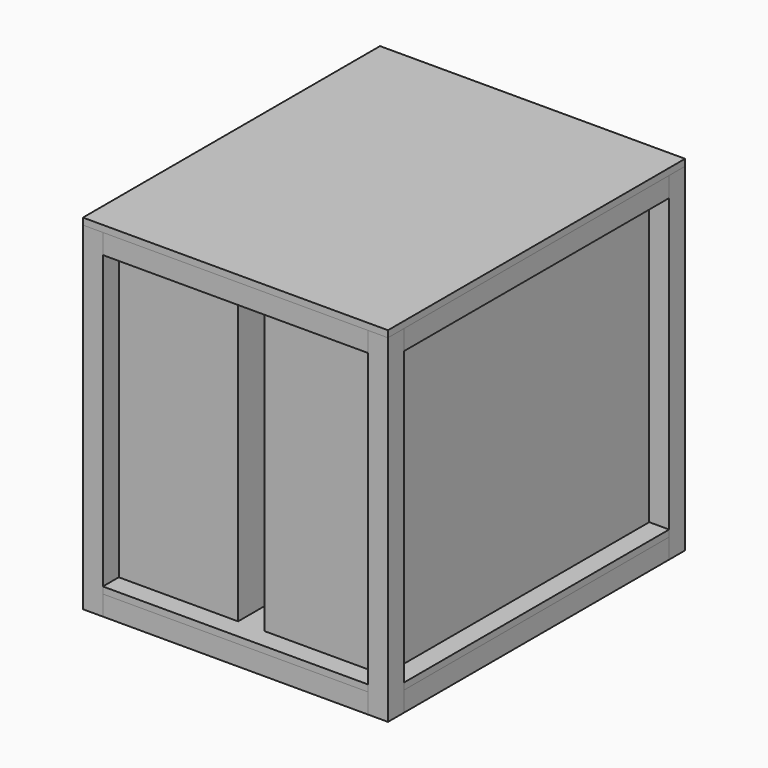
from build123d import *

# Parameters (mm, degrees)
F0_W      = 228.6
F0_H      = 635
F1_DEPTH  = 558.8
F2_W      = 38.1
F2_H      = 38.1
F3_DEPTH  = 596.9
F3_FACE_W = 38.1
F3_FACE_H = 38.1
F4_DEPTH  = 50.8
F5_DEPTH  = 50.8
F6_DEPTH  = 50.8
F7_DEPTH  = 50.8
F9_DEPTH  = 12.7
F10_W     = 38.1
F10_H     = 635
F10_W_2   = 508
F10_H_2   = 38.1
F11_DEPTH = 38.1
F12_W     = 508
F12_H     = 38.1
F12_W_2   = 38.1
F12_H_2   = 635
F13_DEPTH = 38.1
F14_W     = 584.2
F14_H     = 711.2
F15_DEPTH = 12.7
F16_R     = 3.96875
F17_DEPTH = 50.8


with BuildPart() as f1:
    # F0 (on Top) → F1 (new body)
    with BuildSketch(Plane.XY):
        with Locations((139.7, 0)):
            Rectangle(F0_W, F0_H)
        with Locations((-139.7, 0)):
            Rectangle(F0_W, F0_H)
    extrude(amount=F1_DEPTH)



with BuildPart() as f3:
    # F2 (on Top) → F3 (new body)
    with BuildSketch(Plane.XY):
        with Locations((-273.05, 336.55)):
            Rectangle(F2_W, F2_H)
        with Locations((273.05, 336.55)):
            Rectangle(F2_W, F2_H)
        with Locations((273.05, -336.55)):
            Rectangle(F2_W, F2_H)
        with Locations((-273.05, -336.55)):
            Rectangle(F2_W, F2_H)
    extrude(amount=F3_DEPTH)


with BuildPart() as f1_1:
    add(f1.part)

    add(f3.part)  # F4 merges F3
    # F3_face (on face) → F4 (join)
    with BuildSketch(Plane(origin=(-273.05, -336.55, 0), x_dir=(1, 0, 0), z_dir=(0, 0, -1))):
        Rectangle(F3_FACE_W, F3_FACE_H)
    extrude(amount=F4_DEPTH)

    # F3_face (on face) → F5 (join)
    with BuildSketch(Plane(origin=(-273.05, -336.55, 0), x_dir=(1, 0, 0), z_dir=(0, 0, -1))):
        with Locations((546.1, 0)):
            Rectangle(F3_FACE_W, F3_FACE_H)
    extrude(amount=F5_DEPTH)

    # F3_face (on face) → F6 (join)
    with BuildSketch(Plane(origin=(-273.05, -336.55, 0), x_dir=(1, 0, 0), z_dir=(0, 0, -1))):
        with Locations((0, -673.1)):
            Rectangle(F3_FACE_W, F3_FACE_H)
    extrude(amount=F6_DEPTH)

    # F3_face (on face) → F7 (join)
    with BuildSketch(Plane(origin=(-273.05, -336.55, 0), x_dir=(1, 0, 0), z_dir=(0, 0, -1))):
        with Locations((546.1, -673.1)):
            Rectangle(F3_FACE_W, F3_FACE_H)
    extrude(amount=F7_DEPTH)

    # F16 (on face) → F17 (cut)
    with BuildSketch(Plane(origin=(0, 0, -50.8), x_dir=(1, 0, 0), z_dir=(0, 0, -1))):
        with Locations((273.05, -336.55)):
            Circle(F16_R)
        with Locations((-273.05, -336.55)):
            Circle(F16_R)
        with Locations((273.05, 336.55)):
            Circle(F16_R)
        with Locations((-273.05, 336.55)):
            Circle(F16_R)
    extrude(amount=-F17_DEPTH, mode=Mode.SUBTRACT)


with BuildPart() as f9:
    # F8 (on Top) → F9 (new body)
    with BuildSketch(Plane.XY):
        Polygon((-254, 317.5), (-292.1, 317.5), (-292.1, -317.5), (-254, -317.5), (-254, -355.6), (254, -355.6), (254, -317.5), (292.1, -317.5), (292.1, 317.5), (254, 317.5), (254, 355.6), (-254, 355.6), align=None)
    extrude(amount=-F9_DEPTH)


with BuildPart() as f11:
    # F10 (on face) → F11 (new body)
    with BuildSketch(Plane.XY.offset(596.9)):
        with Locations((273.05, 0)):
            Rectangle(F10_W, F10_H)
        with Locations((0, -336.55)):
            Rectangle(F10_W_2, F10_H_2)
        with Locations((-273.05, 0)):
            Rectangle(F10_W, F10_H)
        with Locations((0, 336.55)):
            Rectangle(F10_W_2, F10_H_2)
    extrude(amount=-F11_DEPTH)


with BuildPart() as f13:
    # F12 (on face) → F13 (new body)
    with BuildSketch(Plane(origin=(0, 0, -50.8), x_dir=(1, 0, 0), z_dir=(0, 0, -1))):
        with Locations((0, -336.55)):
            Rectangle(F12_W, F12_H)
        with Locations((273.05, 0)):
            Rectangle(F12_W_2, F12_H_2)
        with Locations((0, 336.55)):
            Rectangle(F12_W, F12_H)
        with Locations((-273.05, 0)):
            Rectangle(F12_W_2, F12_H_2)
    extrude(amount=-F13_DEPTH)


with BuildPart() as f15:
    # F14 (on face) → F15 (new body)
    with BuildSketch(Plane.XY.offset(596.9)):
        Rectangle(F14_W, F14_H)
    extrude(amount=F15_DEPTH)


solid = Compound([f1_1.part, f9.part, f11.part, f13.part, f15.part])
